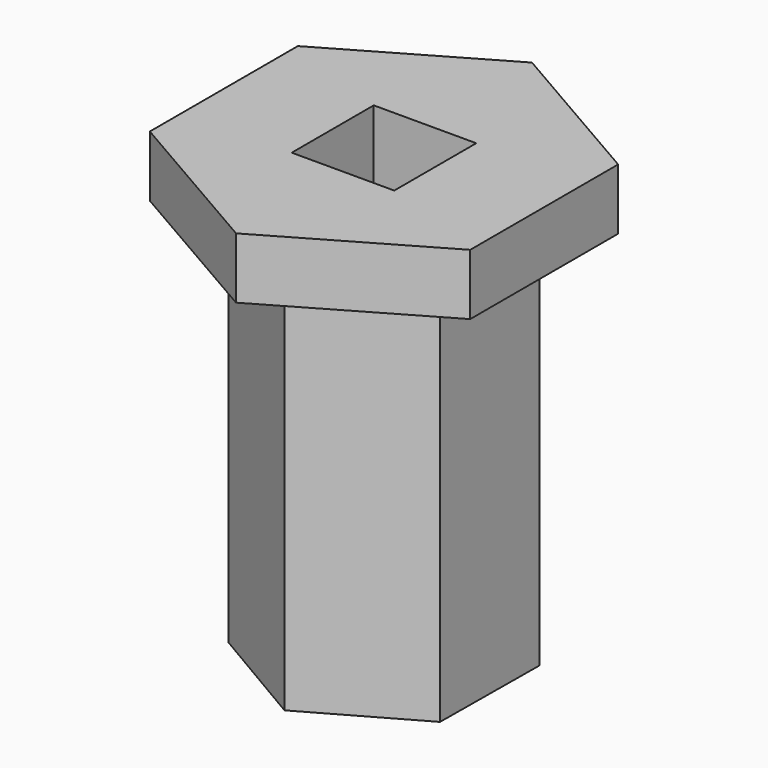
from build123d import *

# Parameters (mm, degrees)
F1_DEPTH = 15
F3_DEPTH = 2.38
F4_W     = 4
F4_H     = 4
F5_DEPTH = 18


with BuildPart() as f1:
    # F0 (on Top) → F1 (new body)
    with BuildSketch(Plane.XY):
        Polygon((-0.04099, 7.37789), (4.136275, 9.742304), (4.177265, 14.542129), (0.04099, 16.97754), (-4.136275, 14.613126), (-4.177265, 9.813301), align=None)
    extrude(amount=F1_DEPTH)

    # F2 (on face) → F3 (join)
    with BuildSketch(Plane.XY.offset(15)):
        Polygon((6.25, 15.788207), (0, 19.396646), (-6.25, 15.788207), (-6.25, 8.571329), (0, 4.96289), (6.25, 8.571329), align=None)
    extrude(amount=F3_DEPTH)

    # F4 (on face) → F5 (cut)
    with BuildSketch(Plane.XY.offset(17.38)):
        with Locations((-0.0005, 12.17989)):
            Rectangle(F4_W, F4_H)
    extrude(amount=-F5_DEPTH, mode=Mode.SUBTRACT)


solid = f1.part
